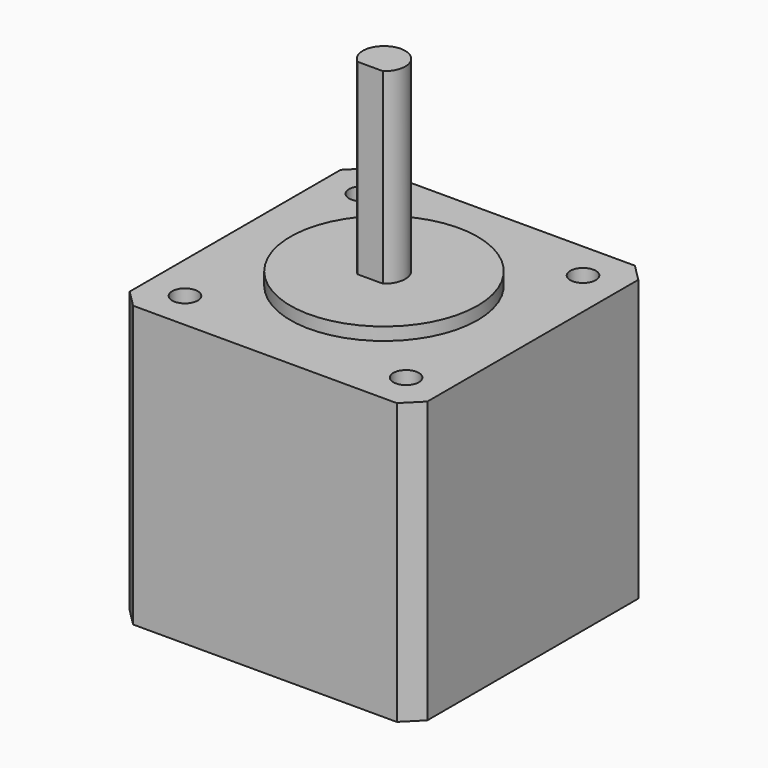
from build123d import *

# Parameters (mm, degrees)
SKETCH003_R  = 2.5
PAD_DEPTH    = 10
SKETCH002_W  = 35
SKETCH002_H  = 35
SKETCH002_R  = 1.5
PAD001_DEPTH = 33
SKETCH004_R  = 11
PAD002_DEPTH = 1.5
PAD003_DEPTH = 22
CHAMFER_SIZE = 2


with BuildPart() as part:
    # Sketch003 → Pad (new body)
    with BuildSketch(Plane.XY):
        Circle(SKETCH003_R)
    extrude(amount=-PAD_DEPTH)

    # Sketch002 → Pad001 (new body)
    with BuildSketch(Plane.XY):
        Rectangle(SKETCH002_W, SKETCH002_H)
        with Locations((-13, 13)):
            Circle(SKETCH002_R, mode=Mode.SUBTRACT)
        with Locations((13, 13)):
            Circle(SKETCH002_R, mode=Mode.SUBTRACT)
        with Locations((13, -13)):
            Circle(SKETCH002_R, mode=Mode.SUBTRACT)
        with Locations((-13, -13)):
            Circle(SKETCH002_R, mode=Mode.SUBTRACT)
    extrude(amount=PAD001_DEPTH)

    # Sketch004 → Pad002 (new body)
    with BuildSketch(Plane.XY.offset(33)):
        Circle(SKETCH004_R)
    extrude(amount=PAD002_DEPTH)

    # Sketch005 → Pad003 (new body)
    with BuildSketch(Plane.XY.offset(34.5)):
        with BuildLine():
            ThreePointArc((1.5, -2), (0, 2.5), (-1.5, -2))
            Line((1.5, -2), (-1.5, -2))
        make_face()
    extrude(amount=PAD003_DEPTH)

    # Chamfer
    chamfer_edges = [part.edges().sort_by_distance(p)[0] for p in [
        (-17.5, -17.5, 16.5),
        (-17.5, 17.5, 16.5),
        (17.5, -17.5, 16.5),
        (17.5, 17.5, 16.5),
    ]]
    chamfer(chamfer_edges, length=CHAMFER_SIZE)


solid = part.part
